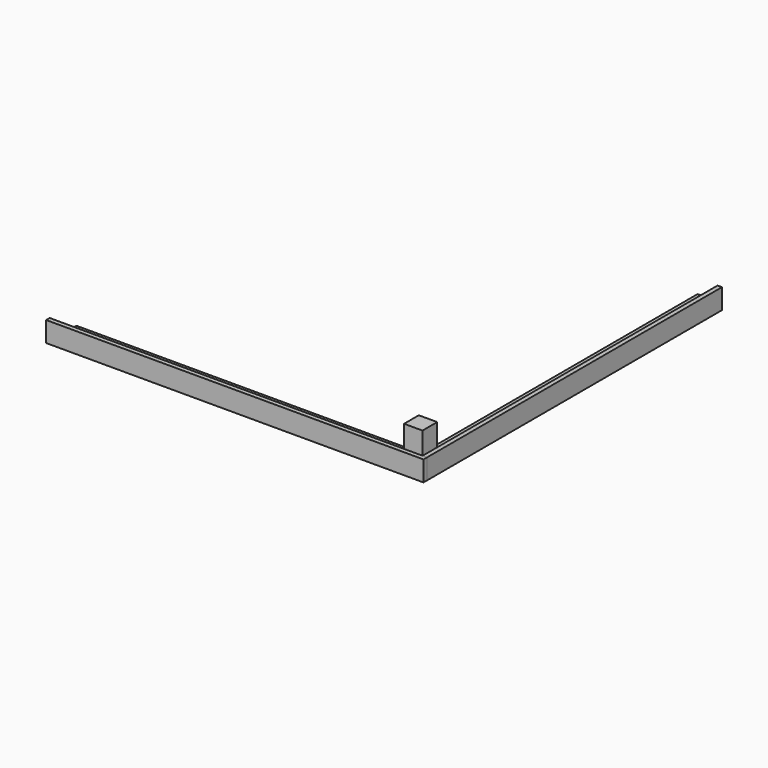
from build123d import *

# Parameters (mm, degrees)
F0_W      = 100
F0_H      = 100
F1_DEPTH  = 200
F2_W      = 24
F2_H      = 2000
F3_DEPTH  = 110
F5_W      = 28
F5_H      = 1800
F6_DEPTH  = 70
F7_W      = 2048
F7_H      = 24
F8_DEPTH  = 110
F10_W     = 1800
F10_H     = 28
F11_DEPTH = 70


with BuildPart() as f1:
    # F0 (on Top) → F1 (new body)
    with BuildSketch(Plane.XY):
        Rectangle(F0_W, F0_H)
    extrude(amount=F1_DEPTH)


with BuildPart() as f3:
    # F2 (on Top) → F3 (new body)
    with BuildSketch(Plane.XY):
        with Locations((62.7515, 949.978597)):
            Rectangle(F2_W, F2_H)
    extrude(amount=F3_DEPTH)


with BuildPart() as f3_1:
    # F4: moved
    add(f3.part.moved(Location((0, 0, -30))))


with BuildPart() as f6:
    # F5 (on Top) → F6 (new body)
    with BuildSketch(Plane.XY):
        with Locations((35.675938, 950.74019)):
            Rectangle(F5_W, F5_H)
    extrude(amount=F6_DEPTH)


with BuildPart() as f8:
    # F7 (on Top) → F8 (new body)
    with BuildSketch(Plane.XY):
        with Locations((-949.244529, -62.126186)):
            Rectangle(F7_W, F7_H)
    extrude(amount=F8_DEPTH)


with BuildPart() as f8_1:
    # F9: moved
    add(f8.part.moved(Location((0, 0, -30))))


with BuildPart() as f11:
    # F10 (on Top) → F11 (new body)
    with BuildSketch(Plane.XY):
        with Locations((-952.16619, -33.737674)):
            Rectangle(F10_W, F10_H)
    extrude(amount=F11_DEPTH)


solid = Compound([f1.part, f3_1.part, f6.part, f8_1.part, f11.part])
